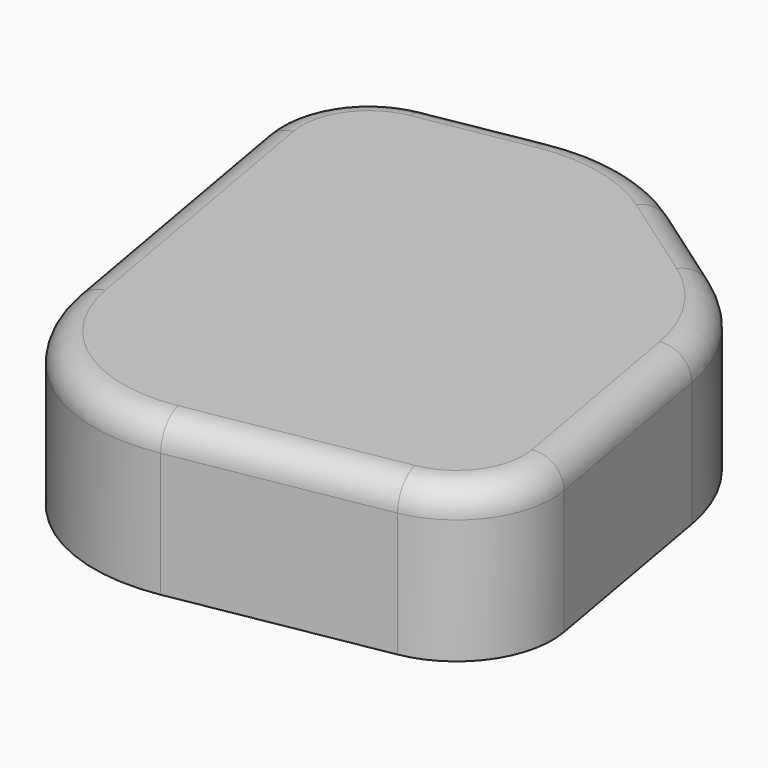
from build123d import *

# Parameters (mm, degrees)
CYLINDER014_R          = 0.8
CYLINDER014_DEPTH      = 12
CYLINDER025_R          = 0.8
CYLINDER025_DEPTH      = 12
CYLINDER015_R          = 0.8
CYLINDER015_DEPTH      = 12
CYLINDER012_R          = 5
CYLINDER012_DEPTH      = 6.5
FILLET022_R            = 1
BOX017_W               = 25
BOX017_H               = 30
BOX017_DEPTH           = 8
FILLET018_R            = 9
FILLET019_R            = 5
CHAMFER001_SIZE        = 10
FILLET020_R            = 10
FILLET021_R            = 1.5
CUT010_PLACEMENT_ANGLE = 10


with BuildPart() as obj1:
    # Cylinder014 → Cylinder014 (new body)
    with BuildSketch(Plane(origin=(3, 17, 0), x_dir=(1, 0, 0), z_dir=(0, 0, 1))):
        Circle(CYLINDER014_R)
    extrude(amount=CYLINDER014_DEPTH)


with BuildPart() as obj2:
    # Cylinder025 → Cylinder025 (new body)
    with BuildSketch(Plane(origin=(11, 8, 0), x_dir=(1, 0, 0), z_dir=(0, 0, 1))):
        Circle(CYLINDER025_R)
    extrude(amount=CYLINDER025_DEPTH)


with BuildPart() as obj3:
    # Cylinder015 → Cylinder015 (new body)
    with BuildSketch(Plane(origin=(12, -4, 0), x_dir=(1, 0, 0), z_dir=(0, 0, 1))):
        Circle(CYLINDER015_R)
    extrude(amount=CYLINDER015_DEPTH)


with BuildPart() as fusion010:
    # Cylinder012 → Cylinder012 (new body)
    with BuildSketch(Plane.XY):
        Circle(CYLINDER012_R)
    extrude(amount=CYLINDER012_DEPTH)

    # Fillet022
    fillet022_edges = [fusion010.edges().sort_by_distance(p)[0] for p in [
        (-5, 0, 6.5),
    ]]
    fillet(fillet022_edges, radius=FILLET022_R)

    # Fusion010: union obj1, obj2, obj3
    add(obj1.part)
    add(obj2.part)
    add(obj3.part)


with BuildPart() as cut010:
    # Box017 → Box017 (new body)
    with BuildSketch(Plane(origin=(-9, -9, 4.5), x_dir=(1, 0, 0), z_dir=(0, 0, 1))):
        with Locations((12.5, 15)):
            Rectangle(BOX017_W, BOX017_H)
    extrude(amount=BOX017_DEPTH)

    # Fillet018
    fillet018_edges = [cut010.edges().sort_by_distance(p)[0] for p in [
        (-9, -9, 8.5),
    ]]
    fillet(fillet018_edges, radius=FILLET018_R)

    # Fillet019
    fillet019_edges = [cut010.edges().sort_by_distance(p)[0] for p in [
        (-9, 21, 8.5),
        (16, -9, 8.5),
    ]]
    fillet(fillet019_edges, radius=FILLET019_R)

    # Chamfer001
    chamfer001_edges = [cut010.edges().sort_by_distance(p)[0] for p in [
        (16, 21, 8.5),
    ]]
    chamfer(chamfer001_edges, length=CHAMFER001_SIZE)

    # Fillet020
    fillet020_edges = [cut010.edges().sort_by_distance(p)[0] for p in [
        (6, 21, 8.5),
        (16, 11, 8.5),
    ]]
    fillet(fillet020_edges, radius=FILLET020_R)

    # Fillet021
    fillet021_edges = [cut010.edges().sort_by_distance(p)[0] for p in [
        (11, 16, 12.5),
    ]]
    fillet(fillet021_edges, radius=FILLET021_R)

    # Cut010: cut Fusion010
    add(fusion010.part, mode=Mode.SUBTRACT)


with BuildPart() as cut010_1:
    # Cut010 placement: moved
    add(cut010.part.moved(Location((0, -2, 0))).rotate(Axis((0, -2, 0), (0, 0, 1)), CUT010_PLACEMENT_ANGLE))


solid = cut010_1.part
